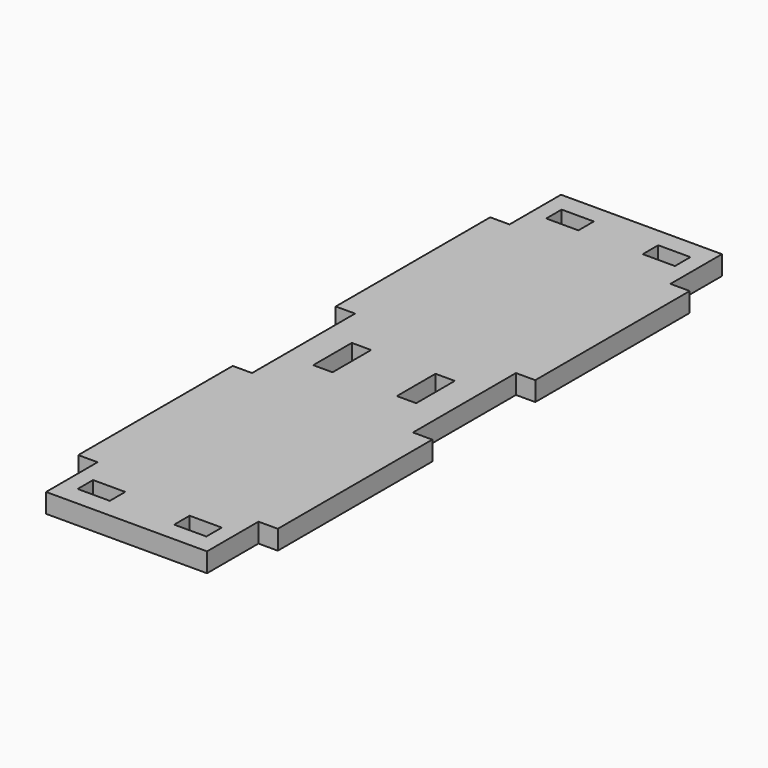
from build123d import *

# Parameters (mm, degrees)
F0_W     = 5
F0_H     = 3
F0_W_2   = 3
F0_H_2   = 7.5
F1_DEPTH = 3


with BuildPart() as f1:
    # F0 (on Top) → F1 (new body)
    with BuildSketch(Plane.XY):
        Polygon((12.5, 50), (-12.5, 50), (-12.5, 40), (-15.5, 40), (-15.5, 10), (-12.5, 10), (-12.5, -10), (-15.5, -10), (-15.5, -40), (-12.5, -40), (-12.5, -50), (12.5, -50), (12.5, -40), (15.5, -40), (15.5, -10), (12.5, -10), (12.5, 10), (15.5, 10), (15.5, 40), (12.5, 40), align=None)
        with Locations((-7.5, -45.5)):
            Rectangle(F0_W, F0_H, mode=Mode.SUBTRACT)
        with Locations((7.5, -45.5)):
            Rectangle(F0_W, F0_H, mode=Mode.SUBTRACT)
        with Locations((-6.5, 0)):
            Rectangle(F0_W_2, F0_H_2, mode=Mode.SUBTRACT)
        with Locations((-7.5, 45.5)):
            Rectangle(F0_W, F0_H, mode=Mode.SUBTRACT)
        with Locations((6.5, 0)):
            Rectangle(F0_W_2, F0_H_2, mode=Mode.SUBTRACT)
        with Locations((7.5, 45.5)):
            Rectangle(F0_W, F0_H, mode=Mode.SUBTRACT)
    extrude(amount=F1_DEPTH)


solid = f1.part
